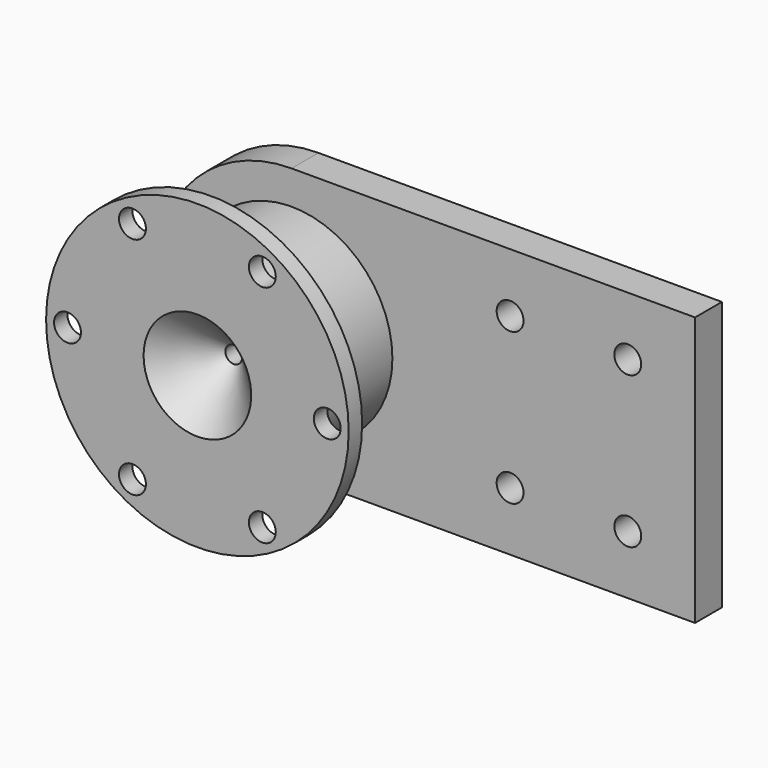
from build123d import *

# Parameters (mm, degrees)
F1_DEPTH        = 10
F2_R            = 30
F3_DEPTH        = 30
F4_R            = 45
F4_R_2          = 30
F5_DEPTH        = 5
F6_R            = 4
F7_DEPTH        = 5
F8_R            = 4
F9_DEPTH        = 10.001
F11_D           = 5
F11_CSINK_D     = 32
F11_CSINK_ANGLE = 90


with BuildPart() as f1:
    # F0 (on Front) → F1 (new body)
    with BuildSketch(Plane.XZ):
        with BuildLine():
            Line((120, 40), (0, 40))
            ThreePointArc((0, 40), (-40, 0), (0, -40))
            Line((0, -40), (120, -40))
            Line((120, -40), (120, 40))
        make_face()
    extrude(amount=F1_DEPTH)

    # F2 (on face) → F3 (join)
    with BuildSketch(Plane.XZ.offset(10)):
        Circle(F2_R)
    extrude(amount=F3_DEPTH)

    # F4 (on face) → F5 (join)
    with BuildSketch(Plane.XZ.offset(40)):
        Circle(F4_R)
        Circle(F4_R_2, mode=Mode.SUBTRACT)
        Circle(F4_R_2)
    extrude(amount=F5_DEPTH)

    # F6 (on face) → F7 (cut, through all)
    with BuildSketch(Plane.XZ.offset(45)):
        with Locations((-19.3139053881, 33.4526654248)):
            Circle(F6_R)
        with Locations((19.3139053881, 33.4526654248)):
            Circle(F6_R)
        with Locations((38.6278107762, 0)):
            Circle(F6_R)
        with Locations((19.3139053881, -33.4526654248)):
            Circle(F6_R)
        with Locations((-19.3139053881, -33.4526654248)):
            Circle(F6_R)
        with Locations((-38.6278107762, 0)):
            Circle(F6_R)
    extrude(amount=-F7_DEPTH, mode=Mode.SUBTRACT)

    # F8 (on face) → F9 (cut, through all)
    with BuildSketch(Plane.XZ.offset(10)):
        with Locations((65, 22.5)):
            Circle(F8_R)
        with Locations((100, 22.5)):
            Circle(F8_R)
        with Locations((65, -22.5)):
            Circle(F8_R)
        with Locations((100, -22.5)):
            Circle(F8_R)
    extrude(amount=-F9_DEPTH, mode=Mode.SUBTRACT)

    # F11 (through all)
    with Locations(Plane.XZ.offset(45)):
        with Locations((0, 0)):
            CounterSinkHole(F11_D / 2, F11_CSINK_D / 2, counter_sink_angle=F11_CSINK_ANGLE)


solid = f1.part
